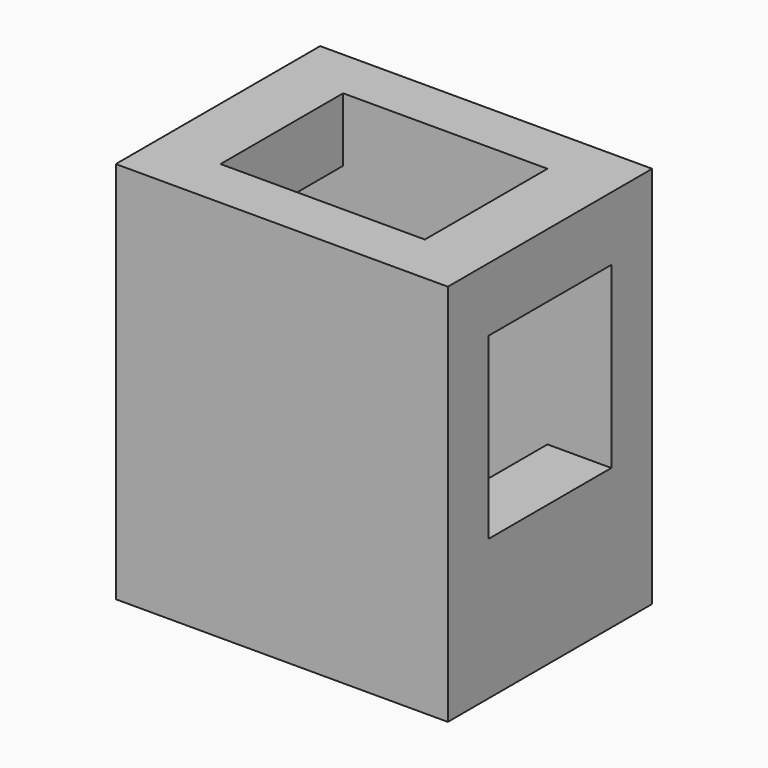
from build123d import *

# Parameters (mm, degrees)
F0_W     = 13
F0_H     = 10
F1_DEPTH = 15
F2_W     = 8
F2_H     = 6
F3_DEPTH = 25
F4_W     = 6
F4_H     = 7
F5_DEPTH = 13
F6_R     = 1


with BuildPart() as f1:
    # F0 (on Top) → F1 (new body)
    with BuildSketch(Plane.XY):
        Rectangle(F0_W, F0_H)
    extrude(amount=F1_DEPTH)

    # F2 (on face) → F3 (cut)
    with BuildSketch(Plane.XY.offset(15)):
        Rectangle(F2_W, F2_H)
    extrude(amount=-F3_DEPTH, mode=Mode.SUBTRACT)

    # F4 (on face) → F5 (cut)
    with BuildSketch(Plane(origin=(-6.5, 0, 0), x_dir=(0, -1, 0), z_dir=(-1, 0, 0))):
        with Locations((0, 9)):
            Rectangle(F4_W, F4_H)
    extrude(amount=-F5_DEPTH, mode=Mode.SUBTRACT)

    # F6
    f6_edges = [f1.edges().sort_by_distance(p)[0] for p in [
        (4, 0, 0),
        (0, 3, 0),
        (-4, 0, 0),
        (0, -3, 0),
    ]]
    fillet(f6_edges, radius=F6_R)


solid = f1.part
